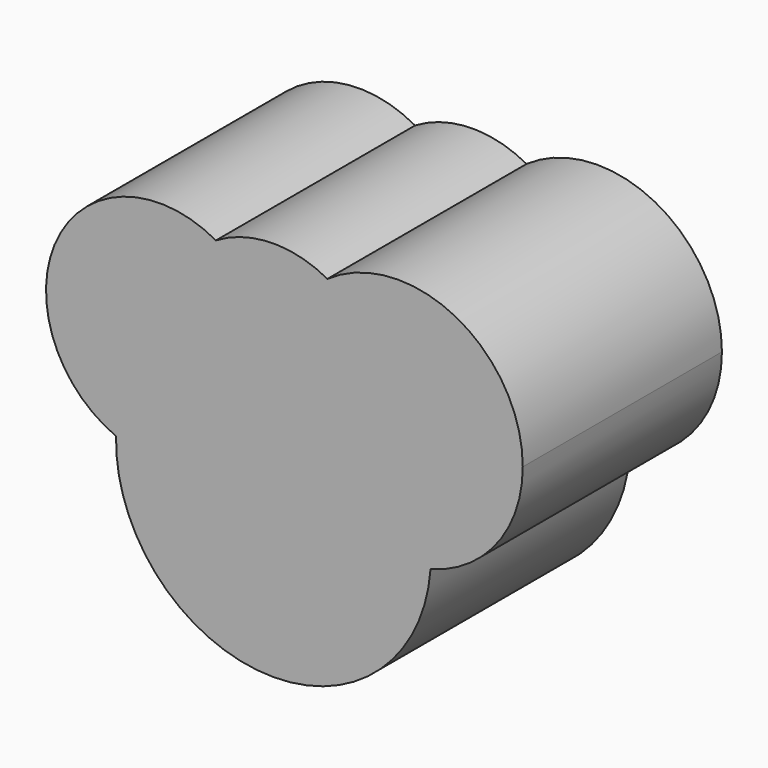
from build123d import *

# Parameters (mm, degrees)
F1_DEPTH = 135.89


with BuildPart() as f1:
    # F0 (on Front) → F1 (new body)
    with BuildSketch(Plane.XZ):
        with BuildLine():
            ThreePointArc((-0.402361, -59.350092), (-14.92337, -57.568817), (-28.607244, -52.393469))
            ThreePointArc((-28.607244, -52.393469), (-56.848471, -62.044811), (-86.337414, -57.449427))
            ThreePointArc((-86.337414, -57.449427), (-61.850793, -119.454468), (-0.402361, -145.306161))
            ThreePointArc((-0.402361, -145.306161), (20.97924, -102.328126), (-0.402361, -59.350092))
        make_face()
        with BuildLine():
            ThreePointArc((5.353071, 26.413075), (1.351735, 13.475031), (0, 0))
            ThreePointArc((0, 0), (26.5136, -53.799627), (85.330052, -65.546792))
            ThreePointArc((85.330052, -65.546792), (121.639734, -41.326507), (135.680214, 0))
            ThreePointArc((135.680214, 0), (99.219052, 60.146836), (29.028204, 55.640959))
            ThreePointArc((29.028204, 55.640959), (15.124492, 42.700633), (5.353071, 26.413075))
        make_face()
        with BuildLine():
            ThreePointArc((-31.83483, 54.332647), (-16.674524, 42.414806), (-5.886424, 26.430855))
            ThreePointArc((-5.886424, 26.430855), (-0.266385, 26.605869), (5.353071, 26.413075))
            ThreePointArc((5.353071, 26.413075), (15.124492, 42.700633), (29.028204, 55.640959))
            ThreePointArc((29.028204, 55.640959), (-1.577442, 63.087342), (-31.83483, 54.332647))
        make_face()
        with BuildLine():
            ThreePointArc((-28.607244, -52.393469), (-7.617664, -29.84732), (0, 0))
            ThreePointArc((0, 0), (-1.489415, 13.539203), (-5.886424, 26.430855))
            ThreePointArc((-5.886424, 26.430855), (-16.674524, 42.414806), (-31.83483, 54.332647))
            ThreePointArc((-31.83483, 54.332647), (-118.264652, 27.295814), (-86.337414, -57.449427))
            ThreePointArc((-86.337414, -57.449427), (-56.848471, -62.044811), (-28.607244, -52.393469))
        make_face()
        with BuildLine():
            ThreePointArc((85.330052, -65.546792), (26.5136, -53.799627), (0, 0))
            ThreePointArc((0, 0), (-7.617664, -29.84732), (-28.607244, -52.393469))
            ThreePointArc((-28.607244, -52.393469), (-14.92337, -57.568817), (-0.402361, -59.350092))
            ThreePointArc((-0.402361, -59.350092), (20.97924, -102.328126), (-0.402361, -145.306161))
            ThreePointArc((-0.402361, -145.306161), (58.145917, -122.282952), (85.330052, -65.546792))
        make_face()
        with BuildLine():
            ThreePointArc((-5.886424, 26.430855), (-1.489415, 13.539203), (0, 0))
            ThreePointArc((0, 0), (1.351735, 13.475031), (5.353071, 26.413075))
            ThreePointArc((5.353071, 26.413075), (-0.266385, 26.605869), (-5.886424, 26.430855))
        make_face()
    extrude(amount=F1_DEPTH)


solid = f1.part
